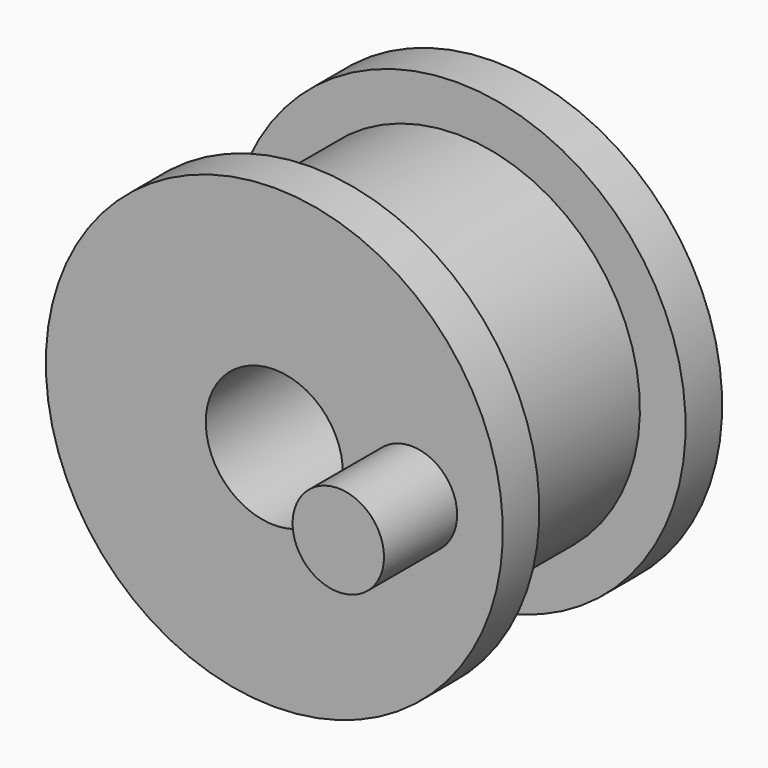
from build123d import *

# Parameters (mm, degrees)
F0_W     = 12.7
F0_H     = 7.9375
F2_R     = 3.175
F3_DEPTH = 6.35


with BuildPart() as f1:
    # F0 (on Right) → F1 (revolve)
    with BuildSketch(Plane.YZ):
        with Locations((9.525, 8.73125)):
            Rectangle(F0_W, F0_H)
        Polygon((0, 4.7625), (3.175, 4.7625), (3.175, 12.7), (3.175, 15.875), (0, 15.875), align=None)
        Polygon((15.875, 4.7625), (19.05, 4.7625), (19.05, 15.875), (15.875, 15.875), (15.875, 12.7), align=None)
    revolve(axis=Axis((0, 9.525, 0), (0, 1, 0)))

    # F2 (on Front) → F3 (join)
    with BuildSketch(Plane.XZ):
        with Locations((9.525, 0)):
            Circle(F2_R)
    extrude(amount=F3_DEPTH)


solid = f1.part
